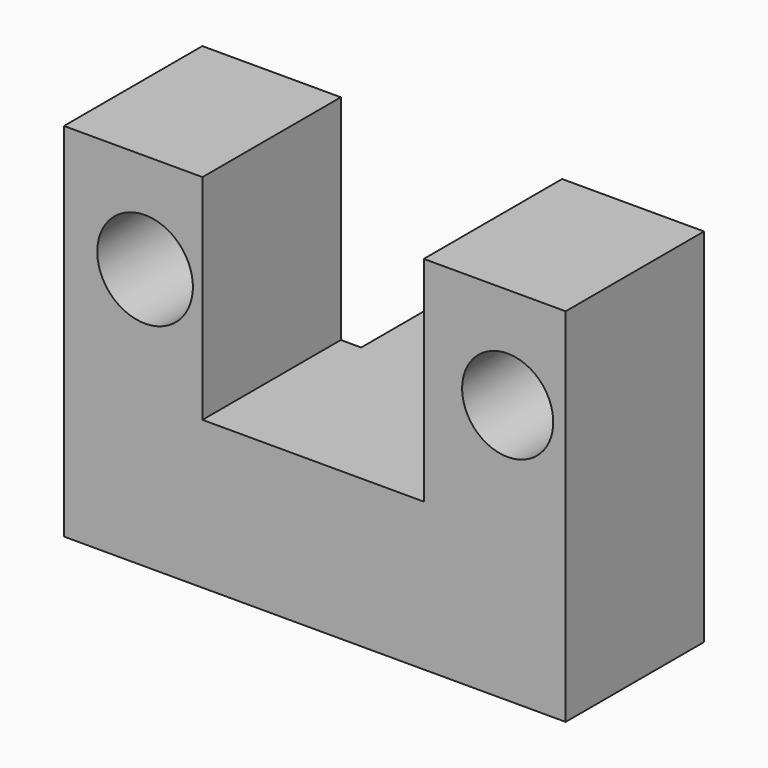
from build123d import *

# Parameters (mm, degrees)
F1_DEPTH  = 25.4
F2_W      = 32.500189
F2_H      = 31.383768
F3_DEPTH  = 76.2
F4_W      = 25.639828
F4_H      = 21.70814
F5_DEPTH  = 25.4
F8_R      = 6.693883
F9_DEPTH  = 25.4
F6_R      = 6.693885
F10_DEPTH = 25.4
F7_R      = 7.02202
F11_DEPTH = 25.4


with BuildPart() as f1:
    # F0 (on Front) → F1 (new body)
    with BuildSketch(Plane.XZ):
        Polygon((-46.641488, 31.383768), (-46.641488, 28.902836), (-46.641488, -21.70814), (27.042137, -21.70814), (27.042137, 31.383768), align=None)
    extrude(amount=F1_DEPTH)

    # F2 (on face) → F3 (cut)
    with BuildSketch(Plane.XZ.offset(25.4)):
        with Locations((-10.047767, 15.691884)):
            Rectangle(F2_W, F2_H)
    extrude(amount=-F3_DEPTH, mode=Mode.SUBTRACT)

    # F4 (on face) → F5 (join)
    with BuildSketch(Plane(origin=(0, 0, 0), x_dir=(-1, 0, 0), z_dir=(0, 1, 0))):
        with Locations((10.49182, -10.85407)):
            Rectangle(F4_W, F4_H)
    extrude(amount=F5_DEPTH)

    # F8 (on face) → F9 (cut)
    with BuildSketch(Plane.XY):
        with Locations((-10.033408, 12.608757)):
            Circle(F8_R)
    extrude(amount=-F9_DEPTH, mode=Mode.SUBTRACT)

    # F6 (on face) → F10 (cut)
    with BuildSketch(Plane(origin=(0, 0, 0), x_dir=(-1, 0, 0), z_dir=(0, 1, 0))):
        with Locations((-18.523216, 16.462401)):
            Circle(F6_R)
    extrude(amount=-F10_DEPTH, mode=Mode.SUBTRACT)

    # F7 (on face) → F11 (cut)
    with BuildSketch(Plane(origin=(0, 0, 0), x_dir=(-1, 0, 0), z_dir=(0, 1, 0))):
        with Locations((34.731027, 16.719667)):
            Circle(F7_R)
    extrude(amount=-F11_DEPTH, mode=Mode.SUBTRACT)


solid = f1.part
